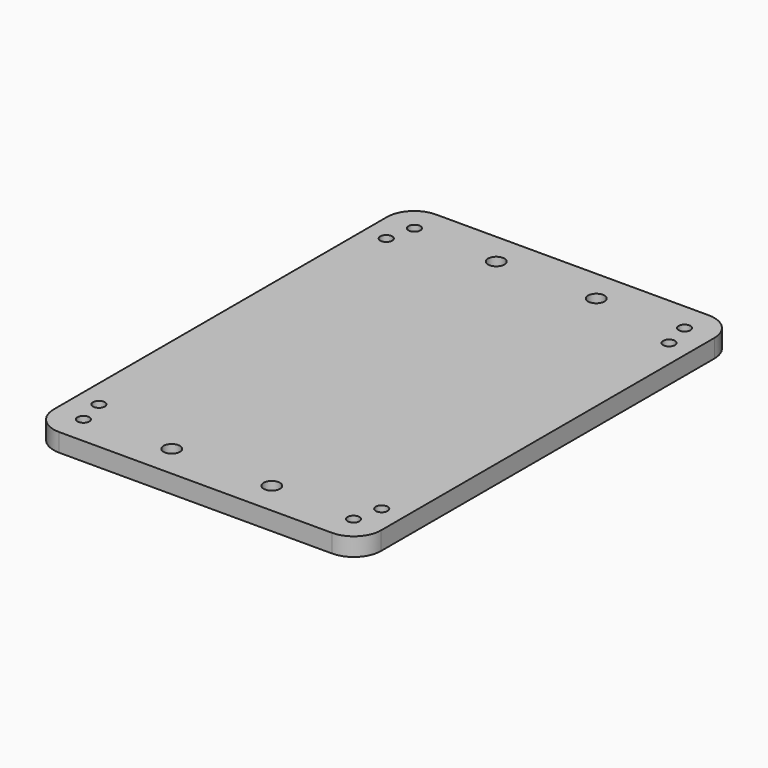
from build123d import *

# Parameters (mm, degrees)
F0_W     = 91.44
F0_H     = 131.572
F0_R     = 1.651
F0_R_2   = 2.286
F1_DEPTH = 5.08
F2_R     = 7.62


with BuildPart() as f1:
    # F0 (on Top) → F1 (new body)
    with BuildSketch(Plane.XY):
        Rectangle(F0_W, F0_H)
        with Locations((-37.719, -57.785)):
            Circle(F0_R, mode=Mode.SUBTRACT)
        with Locations((-39.497, -50.165)):
            Circle(F0_R, mode=Mode.SUBTRACT)
        with Locations((-13.97, -56.642)):
            Circle(F0_R_2, mode=Mode.SUBTRACT)
        with Locations((13.97, -56.642)):
            Circle(F0_R_2, mode=Mode.SUBTRACT)
        with Locations((37.719, -57.785)):
            Circle(F0_R, mode=Mode.SUBTRACT)
        with Locations((39.497, -50.165)):
            Circle(F0_R, mode=Mode.SUBTRACT)
        with Locations((-39.497, 50.165)):
            Circle(F0_R, mode=Mode.SUBTRACT)
        with Locations((-37.719, 57.785)):
            Circle(F0_R, mode=Mode.SUBTRACT)
        with Locations((-13.97, 56.642)):
            Circle(F0_R_2, mode=Mode.SUBTRACT)
        with Locations((13.97, 56.642)):
            Circle(F0_R_2, mode=Mode.SUBTRACT)
        with Locations((39.497, 50.165)):
            Circle(F0_R, mode=Mode.SUBTRACT)
        with Locations((37.719, 57.785)):
            Circle(F0_R, mode=Mode.SUBTRACT)
    extrude(amount=F1_DEPTH)

    # F2
    f2_edges = [f1.edges().sort_by_distance(p)[0] for p in [
        (-45.72, 65.786, 2.54),
        (45.72, 65.786, 2.54),
        (45.72, -65.786, 2.54),
        (-45.72, -65.786, 2.54),
    ]]
    fillet(f2_edges, radius=F2_R)


solid = f1.part
